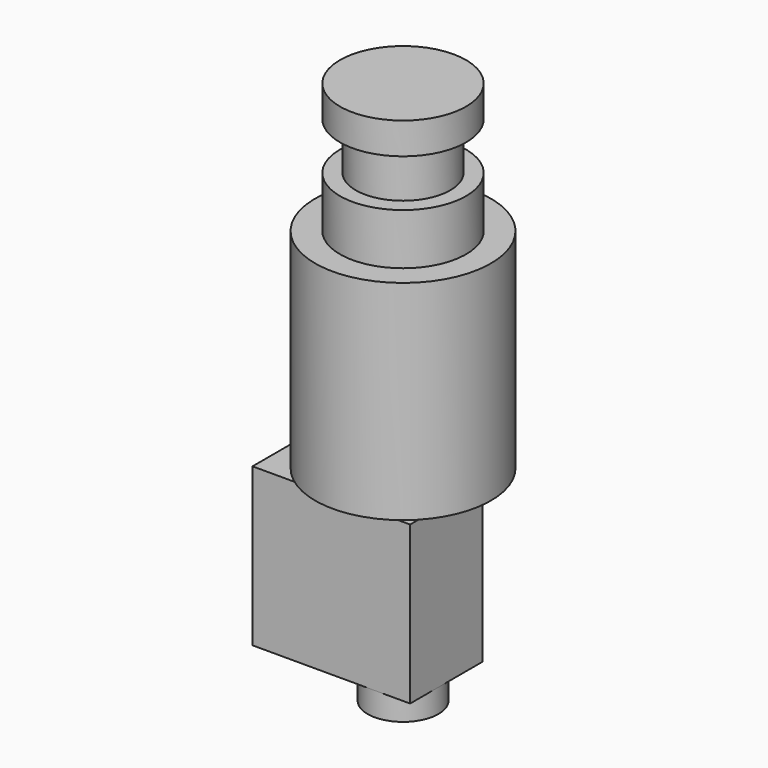
from build123d import *

# Parameters (mm, degrees)
PAD006_DEPTH = 4.5
PAD007_DEPTH = 7


with BuildPart() as part:
    # Sketch015 → Revolution (revolve)
    with BuildSketch(Plane.YZ):
        Polygon((0, 4), (8, 4), (8, 0), (6, 0), (6, -6), (8, -6), (8, -12.5), (11.15, -12.5), (11.15, -39), (3.5, -39), (3.5, -62), (4.5, -62), (4.5, -65), (1.900415, -65), (0.5, -67), (0, -67), align=None)
    revolve(axis=Axis((0, 0, 0), (0, 0, 1)))

    # Sketch016 → Pad006 (new body)
    with BuildSketch(Plane.XZ):
        Polygon((-3.5, -62), (-15.5, -62), (-15.5, -42), (4.5, -42), (4.5, -62), (3.5, -62), align=None)
    extrude(amount=PAD006_DEPTH)

    # Sketch016 → Pad007 (join)
    with BuildSketch(Plane.XZ):
        Polygon((-3.5, -62), (-15.5, -62), (-15.5, -42), (4.5, -42), (4.5, -62), (3.5, -62), align=None)
    extrude(amount=-PAD007_DEPTH)


solid = part.part
